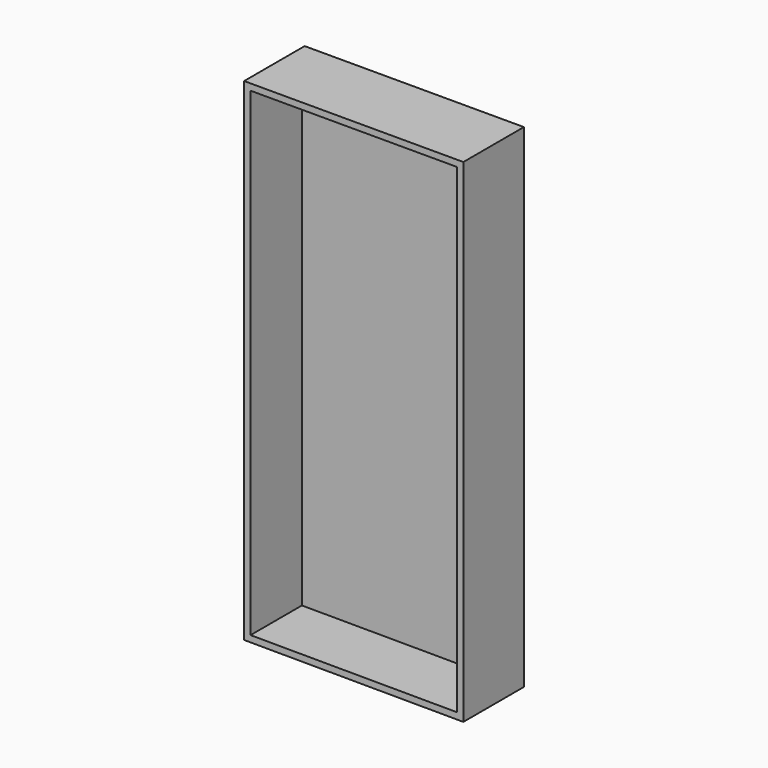
from build123d import *

# Parameters (mm, degrees)
F1_DEPTH = 28
F2_DEPTH = 5


with BuildPart() as f1:
    # F0 (on Front) → F1 (new body)
    with BuildSketch(Plane.XZ):
        Polygon((43.051006, 100.816667), (-52.548994, 100.816667), (-52.548994, -113.772892), (43.051006, -114.130026), align=None)
        Polygon((-49.748994, -110.983333), (-49.748994, 98.016667), (40.251006, 98.016667), (40.251006, -111.319546), align=None, mode=Mode.SUBTRACT)
    extrude(amount=F1_DEPTH)

    # F0 (on Front) + F1_face (on face) → F2 (join)
    with BuildSketch(Plane.XZ):
        Polygon((40.251006, 98.016667), (-49.748994, 98.016667), (-49.748994, -110.983333), (40.251006, -111.319546), align=None)
    with BuildSketch(Plane(origin=(-4.722596, -28, -6.567553), x_dir=(1, 0, 0), z_dir=(0, -1, 0))):
        Polygon((47.773602, -107.562473), (47.773602, 107.38422), (-47.826398, 107.38422), (-47.826398, -107.205339), align=None)
        Polygon((-45.026398, -104.41578), (-45.026398, 104.58422), (44.973602, 104.58422), (44.973602, -104.751993), align=None, mode=Mode.SUBTRACT)
    extrude(amount=F2_DEPTH)


solid = f1.part
